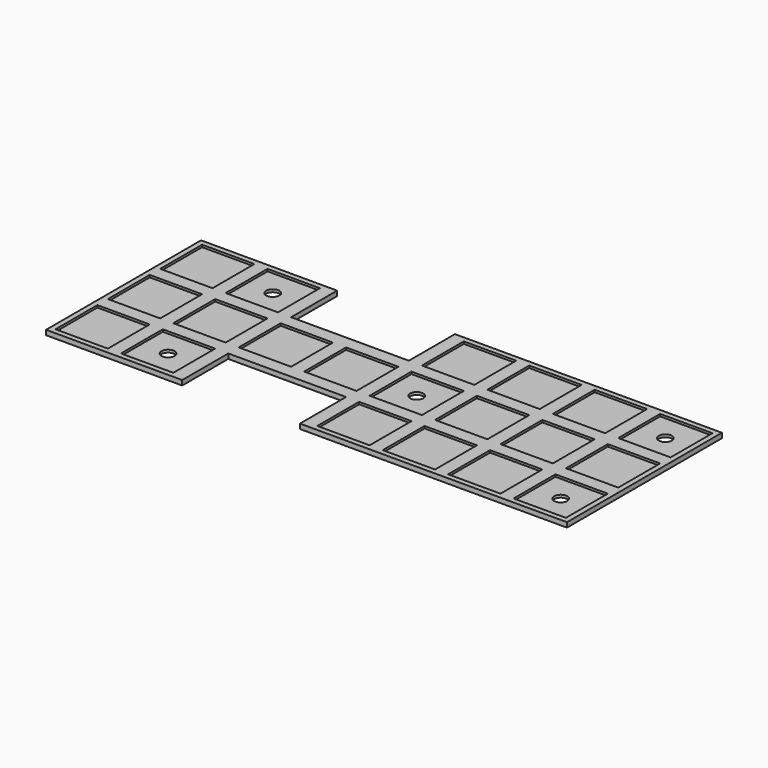
from build123d import *

# Parameters (mm, degrees)
F0_W      = 20
F0_H      = 20
F1_DEPTH  = 0.85
F1_FACE_W = 20
F1_FACE_H = 20
F2_DEPTH  = 1
F3_D      = 5


with BuildPart() as f1:
    # F0 (on Top) → F1 (new body)
    with BuildSketch(Plane.XY):
        Polygon((-125, 52), (-177, 52), (-177, -22), (-125, -22), (-125, 0), (-80, 0), (-80, -22), (22, -22), (22, 52), (-80, 52), (-80, 30), (-125, 30), align=None)
        with Locations((-165, -10)):
            Rectangle(F0_W, F0_H, mode=Mode.SUBTRACT)
        with Locations((-140, -10)):
            Rectangle(F0_W, F0_H, mode=Mode.SUBTRACT)
        with Locations((-65, -10)):
            Rectangle(F0_W, F0_H, mode=Mode.SUBTRACT)
        with Locations((-40, -10)):
            Rectangle(F0_W, F0_H, mode=Mode.SUBTRACT)
        with Locations((-15, -10)):
            Rectangle(F0_W, F0_H, mode=Mode.SUBTRACT)
        with Locations((10, -10)):
            Rectangle(F0_W, F0_H, mode=Mode.SUBTRACT)
        with Locations((-165, 15)):
            Rectangle(F0_W, F0_H, mode=Mode.SUBTRACT)
        with Locations((-140, 15)):
            Rectangle(F0_W, F0_H, mode=Mode.SUBTRACT)
        with Locations((-115, 15)):
            Rectangle(F0_W, F0_H, mode=Mode.SUBTRACT)
        with Locations((-90, 15)):
            Rectangle(F0_W, F0_H, mode=Mode.SUBTRACT)
        with Locations((-165, 40)):
            Rectangle(F0_W, F0_H, mode=Mode.SUBTRACT)
        with Locations((-140, 40)):
            Rectangle(F0_W, F0_H, mode=Mode.SUBTRACT)
        with Locations((-65, 15)):
            Rectangle(F0_W, F0_H, mode=Mode.SUBTRACT)
        with Locations((-40, 15)):
            Rectangle(F0_W, F0_H, mode=Mode.SUBTRACT)
        with Locations((-15, 15)):
            Rectangle(F0_W, F0_H, mode=Mode.SUBTRACT)
        with Locations((10, 15)):
            Rectangle(F0_W, F0_H, mode=Mode.SUBTRACT)
        with Locations((-65, 40)):
            Rectangle(F0_W, F0_H, mode=Mode.SUBTRACT)
        with Locations((-40, 40)):
            Rectangle(F0_W, F0_H, mode=Mode.SUBTRACT)
        with Locations((-15, 40)):
            Rectangle(F0_W, F0_H, mode=Mode.SUBTRACT)
        with Locations((10, 40)):
            Rectangle(F0_W, F0_H, mode=Mode.SUBTRACT)
    extrude(amount=F1_DEPTH)

    # F0 (on Top) + F1_face (on face) → F2 (join)
    with BuildSketch(Plane.XY):
        Polygon((-125, 52), (-177, 52), (-177, -22), (-125, -22), (-125, 0), (-80, 0), (-80, -22), (22, -22), (22, 52), (-80, 52), (-80, 30), (-125, 30), align=None)
        with Locations((-165, -10)):
            Rectangle(F0_W, F0_H, mode=Mode.SUBTRACT)
        with Locations((-140, -10)):
            Rectangle(F0_W, F0_H, mode=Mode.SUBTRACT)
        with Locations((-65, -10)):
            Rectangle(F0_W, F0_H, mode=Mode.SUBTRACT)
        with Locations((-40, -10)):
            Rectangle(F0_W, F0_H, mode=Mode.SUBTRACT)
        with Locations((-15, -10)):
            Rectangle(F0_W, F0_H, mode=Mode.SUBTRACT)
        with Locations((10, -10)):
            Rectangle(F0_W, F0_H, mode=Mode.SUBTRACT)
        with Locations((-165, 15)):
            Rectangle(F0_W, F0_H, mode=Mode.SUBTRACT)
        with Locations((-140, 15)):
            Rectangle(F0_W, F0_H, mode=Mode.SUBTRACT)
        with Locations((-115, 15)):
            Rectangle(F0_W, F0_H, mode=Mode.SUBTRACT)
        with Locations((-90, 15)):
            Rectangle(F0_W, F0_H, mode=Mode.SUBTRACT)
        with Locations((-165, 40)):
            Rectangle(F0_W, F0_H, mode=Mode.SUBTRACT)
        with Locations((-140, 40)):
            Rectangle(F0_W, F0_H, mode=Mode.SUBTRACT)
        with Locations((-65, 15)):
            Rectangle(F0_W, F0_H, mode=Mode.SUBTRACT)
        with Locations((-40, 15)):
            Rectangle(F0_W, F0_H, mode=Mode.SUBTRACT)
        with Locations((-15, 15)):
            Rectangle(F0_W, F0_H, mode=Mode.SUBTRACT)
        with Locations((10, 15)):
            Rectangle(F0_W, F0_H, mode=Mode.SUBTRACT)
        with Locations((-65, 40)):
            Rectangle(F0_W, F0_H, mode=Mode.SUBTRACT)
        with Locations((-40, 40)):
            Rectangle(F0_W, F0_H, mode=Mode.SUBTRACT)
        with Locations((-15, 40)):
            Rectangle(F0_W, F0_H, mode=Mode.SUBTRACT)
        with Locations((10, 40)):
            Rectangle(F0_W, F0_H, mode=Mode.SUBTRACT)
        with Locations((-140, 15)):
            Rectangle(F0_W, F0_H)
        with Locations((-165, 15)):
            Rectangle(F0_W, F0_H)
        with Locations((-165, 40)):
            Rectangle(F0_W, F0_H)
        with Locations((-140, 40)):
            Rectangle(F0_W, F0_H)
        with Locations((-115, 15)):
            Rectangle(F0_W, F0_H)
        with Locations((-140, -10)):
            Rectangle(F0_W, F0_H)
        with Locations((-165, -10)):
            Rectangle(F0_W, F0_H)
        with Locations((-90, 15)):
            Rectangle(F0_W, F0_H)
        with Locations((-65, 40)):
            Rectangle(F0_W, F0_H)
        with Locations((-65, 15)):
            Rectangle(F0_W, F0_H)
        with Locations((-40, 15)):
            Rectangle(F0_W, F0_H)
        with Locations((-65, -10)):
            Rectangle(F0_W, F0_H)
        with Locations((-40, -10)):
            Rectangle(F0_W, F0_H)
        with Locations((-40, 40)):
            Rectangle(F0_W, F0_H)
        with Locations((-15, 40)):
            Rectangle(F0_W, F0_H)
        with Locations((-15, 15)):
            Rectangle(F0_W, F0_H)
        with Locations((-15, -10)):
            Rectangle(F0_W, F0_H)
        with Locations((10, -10)):
            Rectangle(F0_W, F0_H)
        with Locations((10, 15)):
            Rectangle(F0_W, F0_H)
        with Locations((10, 40)):
            Rectangle(F0_W, F0_H)
    with BuildSketch(Plane(origin=(-75.49831437, 15, 0.85), x_dir=(1, 0, 0), z_dir=(0, 0, 1))):
        Polygon((-49.50168563, 37), (-101.50168563, 37), (-101.50168563, -37), (-49.50168563, -37), (-49.50168563, -15), (-4.50168563, -15), (-4.50168563, -37), (97.49831437, -37), (97.49831437, 37), (-4.50168563, 37), (-4.50168563, 15), (-49.50168563, 15), align=None)
        with Locations((-89.50168563, -25)):
            Rectangle(F1_FACE_W, F1_FACE_H, mode=Mode.SUBTRACT)
        with Locations((-64.50168563, -25)):
            Rectangle(F1_FACE_W, F1_FACE_H, mode=Mode.SUBTRACT)
        with Locations((10.49831437, -25)):
            Rectangle(F1_FACE_W, F1_FACE_H, mode=Mode.SUBTRACT)
        with Locations((35.49831437, -25)):
            Rectangle(F1_FACE_W, F1_FACE_H, mode=Mode.SUBTRACT)
        with Locations((60.49831437, -25)):
            Rectangle(F1_FACE_W, F1_FACE_H, mode=Mode.SUBTRACT)
        with Locations((85.49831437, -25)):
            Rectangle(F1_FACE_W, F1_FACE_H, mode=Mode.SUBTRACT)
        with Locations((-89.50168563, 0)):
            Rectangle(F1_FACE_W, F1_FACE_H, mode=Mode.SUBTRACT)
        with Locations((-64.50168563, 0)):
            Rectangle(F1_FACE_W, F1_FACE_H, mode=Mode.SUBTRACT)
        with Locations((-39.50168563, 0)):
            Rectangle(F1_FACE_W, F1_FACE_H, mode=Mode.SUBTRACT)
        with Locations((-14.50168563, 0)):
            Rectangle(F1_FACE_W, F1_FACE_H, mode=Mode.SUBTRACT)
        with Locations((-89.50168563, 25)):
            Rectangle(F1_FACE_W, F1_FACE_H, mode=Mode.SUBTRACT)
        with Locations((-64.50168563, 25)):
            Rectangle(F1_FACE_W, F1_FACE_H, mode=Mode.SUBTRACT)
        with Locations((10.49831437, 0)):
            Rectangle(F1_FACE_W, F1_FACE_H, mode=Mode.SUBTRACT)
        with Locations((35.49831437, 0)):
            Rectangle(F1_FACE_W, F1_FACE_H, mode=Mode.SUBTRACT)
        with Locations((60.49831437, 0)):
            Rectangle(F1_FACE_W, F1_FACE_H, mode=Mode.SUBTRACT)
        with Locations((85.49831437, 0)):
            Rectangle(F1_FACE_W, F1_FACE_H, mode=Mode.SUBTRACT)
        with Locations((10.49831437, 25)):
            Rectangle(F1_FACE_W, F1_FACE_H, mode=Mode.SUBTRACT)
        with Locations((35.49831437, 25)):
            Rectangle(F1_FACE_W, F1_FACE_H, mode=Mode.SUBTRACT)
        with Locations((60.49831437, 25)):
            Rectangle(F1_FACE_W, F1_FACE_H, mode=Mode.SUBTRACT)
        with Locations((85.49831437, 25)):
            Rectangle(F1_FACE_W, F1_FACE_H, mode=Mode.SUBTRACT)
    extrude(amount=-F2_DEPTH)

    # F3 (through all)
    with Locations(Plane.XY):
        with Locations((-140, 40), (-140, -10), (-65, 15), (10, -10), (10, 40)):
            Hole(F3_D / 2)


solid = f1.part
